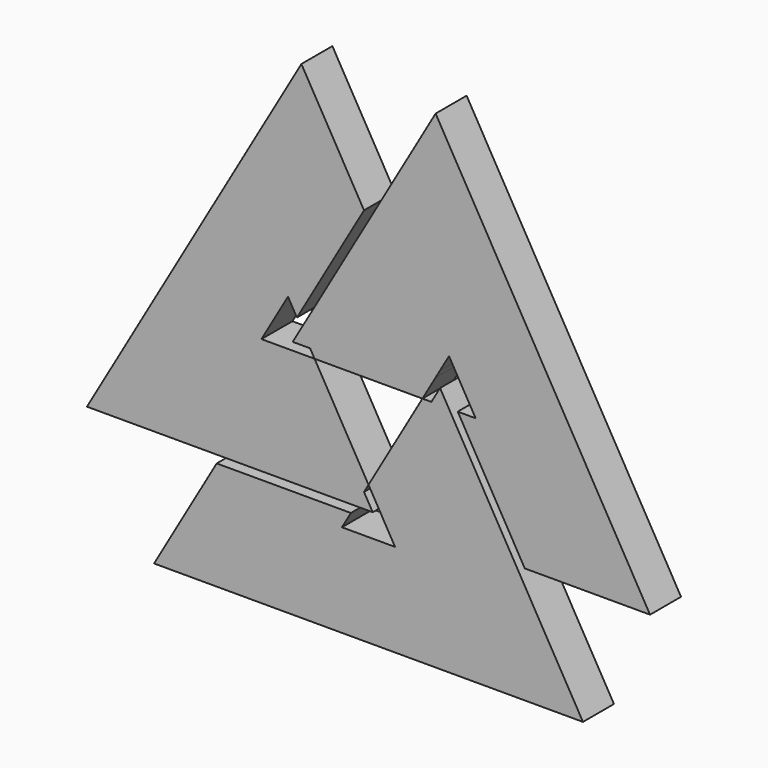
from build123d import *

# Parameters (mm, degrees)
F1_DEPTH = 127


with BuildPart() as f1:
    # F0 (on Front) → F1 (new body)
    with BuildSketch(Plane.XZ):
        Polygon((615.9172671715, 304.8), (439.9409051225, 0), (879.881810245, 0), (1055.858172294, 304.8), align=None)
        Polygon((645.2466608463, 355.6), (615.9172671715, 304.8), (1055.858172294, 304.8), (1085.1875659688, 355.6), align=None)
        Polygon((1055.858172294, 304.8), (879.881810245, 0), (909.2112039198, 0), (1085.1875659688, 304.8), align=None)
        Polygon((1200.8124340312, 304.8), (1376.7887960802, 0), (1406.118189755, 0), (1230.141827706, 304.8), align=None)
        Polygon((1085.1875659688, 304.8), (909.2112039198, 0), (1376.7887960802, 0), (1200.8124340312, 304.8), align=None)
        Polygon((1230.141827706, 304.8), (1406.118189755, 0), (1846.0590948775, 0), (1670.0827328285, 304.8), align=None)
        Polygon((1200.8124340312, 355.6), (1230.141827706, 304.8), (1670.0827328285, 304.8), (1640.7533391537, 355.6), align=None)
        Polygon((1186.1477371938, 381), (1200.8124340312, 355.6), (1640.7533391537, 355.6), (1626.0886423163, 381), align=None)
        Polygon((1157.6646968374, 430.3340730512), (1186.1477371938, 381), (1626.0886423163, 381), (1406.118189755, 762), (1349.1521090423, 762), align=None)
        Polygon((1363.8168058797, 787.4), (1349.1521090423, 762), (1406.118189755, 762), (1391.4534929176, 787.4), align=None)
        Polygon((1377.6351493987, 811.3340730512), (1363.8168058797, 787.4), (1391.4534929176, 787.4), align=None)
        Polygon((1319.8227153675, 762), (1143, 455.7340730512), (1157.6646968374, 430.3340730512), (1349.1521090423, 762), align=None)
    extrude(amount=F1_DEPTH)


with BuildPart() as f1b:
    # F0 (on Front) → F1, piece 2 (new body)
    with BuildSketch(Plane.XZ):
        Polygon((1494.1063707795, 762), (1714.0768233408, 381), (2066.0295474388, 381), (1846.0590948775, 762), align=None)
        Polygon((1435.4475834298, 762), (1655.4180359911, 381), (1714.0768233408, 381), (1494.1063707795, 762), align=None)
        Polygon((1479.4416739421, 787.4), (1494.1063707795, 762), (1846.0590948775, 762), (1831.3943980401, 787.4), align=None)
        Polygon((1421.6292399109, 887.5340730512), (1479.4416739421, 787.4), (1831.3943980401, 787.4), (1597.6056019599, 1192.3340730512), align=None)
        Polygon((1582.9409051225, 1217.7340730512), (1406.9645430735, 912.9340730512), (1421.6292399109, 887.5340730512), (1597.6056019599, 1192.3340730512), align=None)
        Polygon((1362.9704525612, 1598.7340730512), (1186.9940905122, 1293.9340730512), (1406.9645430735, 912.9340730512), (1582.9409051225, 1217.7340730512), align=None)
        Polygon((1186.9940905122, 1293.9340730512), (1157.6646968374, 1243.1340730512), (1377.6351493987, 862.1340730512), (1406.9645430735, 912.9340730512), align=None)
        Polygon((1157.6646968374, 1243.1340730512), (1143, 1217.7340730512), (1362.9704525612, 836.7340730512), (1377.6351493987, 862.1340730512), align=None)
        Polygon((923.0295474388, 836.7340730512), (951.5125877951, 787.4), (1334.4874122049, 787.4), (1362.9704525612, 836.7340730512), (1143, 1217.7340730512), align=None)
        Polygon((908.3648506013, 811.3340730512), (922.1831941203, 787.4), (951.5125877951, 787.4), (923.0295474388, 836.7340730512), align=None)
        Polygon((908.3648506013, 811.3340730512), (894.5465070824, 787.4), (922.1831941203, 787.4), align=None)
        Polygon((951.5125877951, 787.4), (966.1772846325, 762), (1319.8227153675, 762), (1334.4874122049, 787.4), align=None)
    extrude(amount=F1_DEPTH)


with BuildPart() as f1c:
    # F0 (on Front) → F1, piece 3 (new body)
    with BuildSketch(Plane.XZ):
        Polygon((879.881810245, 762), (659.9113576837, 381), (1099.8522628062, 381), (1128.3353031626, 430.3340730512), (936.8478909577, 762), align=None)
        Polygon((850.5524165702, 762), (630.5819640089, 381), (659.9113576837, 381), (879.881810245, 762), align=None)
        Polygon((791.8936292205, 762), (571.9231766592, 381), (630.5819640089, 381), (850.5524165702, 762), align=None)
        Polygon((439.9409051225, 762), (219.9704525612, 381), (571.9231766592, 381), (791.8936292205, 762), align=None)
        Polygon((454.6056019599, 787.4), (439.9409051225, 762), (791.8936292205, 762), (806.5583260579, 787.4), align=None)
        Polygon((688.3943980401, 1192.3340730512), (454.6056019599, 787.4), (806.5583260579, 787.4), (864.3707600891, 887.5340730512), align=None)
        Polygon((703.0590948775, 1217.7340730512), (688.3943980401, 1192.3340730512), (864.3707600891, 887.5340730512), (879.0354569265, 912.9340730512), align=None)
        Polygon((923.0295474388, 1598.7340730512), (703.0590948775, 1217.7340730512), (879.0354569265, 912.9340730512), (1099.0059094878, 1293.9340730512), align=None)
        Polygon((1099.0059094878, 1293.9340730512), (879.0354569265, 912.9340730512), (908.3648506013, 862.1340730512), (1128.3353031626, 1243.1340730512), align=None)
        Polygon((1128.3353031626, 430.3340730512), (1099.8522628062, 381), (1129.1816564811, 381), (1143, 404.9340730512), align=None)
        Polygon((1143, 404.9340730512), (1129.1816564811, 381), (1156.8183435189, 381), align=None)
        Polygon((936.8478909577, 762), (1128.3353031626, 430.3340730512), (1143, 455.7340730512), (966.1772846325, 762), align=None)
    extrude(amount=F1_DEPTH)


solid = Compound([f1.part, f1b.part, f1c.part])
